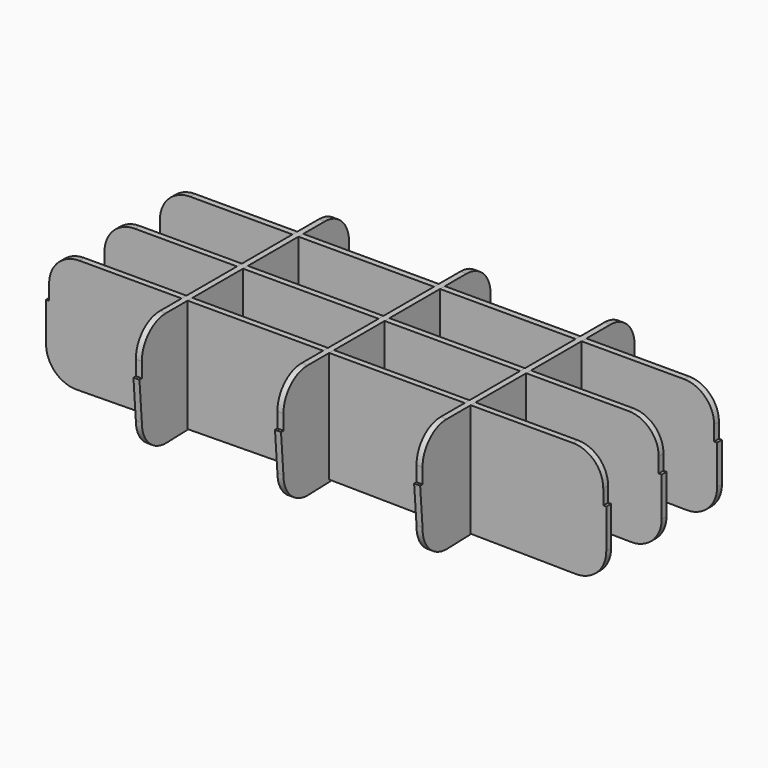
from build123d import *

# Parameters (mm, degrees)
F10_DEPTH = 1
F11_DEPTH = 1
F12_DEPTH = 1


with BuildPart() as f10:
    # F4 (on offset) → F10 (new body, symmetric)
    with BuildSketch(Plane.XZ.offset(23)):
        with BuildLine():
            ThreePointArc((82.879351, -16), (90.028283, -13.114323), (93, -6.000728))
            Line((93, -6.000728), (93, 7))
            Line((93, 7), (92, 7))
            Line((92, 7), (92, 12))
            ThreePointArc((92, 12), (89.071068, 19.071068), (82, 22))
            Line((82, 22), (-82, 22))
            ThreePointArc((-82, 22), (-89.071068, 19.071068), (-92, 12))
            Line((-92, 12), (-92, 7))
            Line((-92, 7), (-93, 7))
            Line((-93, 7), (-93, -6.000728))
            ThreePointArc((-93, -6.000728), (-90.028283, -13.114323), (-82.879351, -16))
            Line((-82.879351, -16), (0, -15))
            Line((0, -15), (82.879351, -16))
        make_face()
    extrude(amount=F10_DEPTH, both=True)


with BuildPart() as f11:
    # F5 (on Front) + F6 (on offset) → F11 (new body, symmetric)
    with BuildSketch(Plane.XZ):
        with BuildLine():
            ThreePointArc((82.879351, -16), (90.028283, -13.114323), (93, -6.000728))
            Line((93, -6.000728), (93, 7))
            Line((93, 7), (92, 7))
            Line((92, 7), (92, 12))
            ThreePointArc((92, 12), (89.071068, 19.071068), (82, 22))
            Line((82, 22), (-82, 22))
            ThreePointArc((-82, 22), (-89.071068, 19.071068), (-92, 12))
            Line((-92, 12), (-92, 7))
            Line((-92, 7), (-93, 7))
            Line((-93, 7), (-93, -6.000728))
            ThreePointArc((-93, -6.000728), (-90.028283, -13.114323), (-82.879351, -16))
            Line((-82.879351, -16), (0, -15))
            Line((0, -15), (82.879351, -16))
        make_face()
    with BuildSketch(Plane.XZ.offset(-23)):
        with BuildLine():
            ThreePointArc((82.879351, -16), (90.028283, -13.114323), (93, -6.000728))
            Line((93, -6.000728), (93, 7))
            Line((93, 7), (92, 7))
            Line((92, 7), (92, 12))
            ThreePointArc((92, 12), (89.071068, 19.071068), (82, 22))
            Line((82, 22), (-82, 22))
            ThreePointArc((-82, 22), (-89.071068, 19.071068), (-92, 12))
            Line((-92, 12), (-92, 7))
            Line((-92, 7), (-93, 7))
            Line((-93, 7), (-93, -6.000728))
            ThreePointArc((-93, -6.000728), (-90.028283, -13.114323), (-82.879351, -16))
            Line((-82.879351, -16), (0, -15))
            Line((0, -15), (82.879351, -16))
        make_face()
    extrude(amount=F11_DEPTH, both=True)


with BuildPart() as f12:
    # F8 (on offset) + F9 (on Right) + F7 (on offset) → F12 (new body, symmetric)
    with BuildSketch(Plane.YZ.offset(-47)):
        with BuildLine():
            Line((43.003591, -5.975801), (44.00363, 7))
            Line((44.00363, 7), (43, 7))
            Line((43, 7), (43, 12))
            ThreePointArc((43, 12), (40.071068, 19.071068), (33, 22))
            Line((33, 22), (-33, 22))
            ThreePointArc((-33, 22), (-40.071068, 19.071068), (-43, 12))
            Line((-43, 12), (-43, 7))
            Line((-43, 7), (-43.99637, 7))
            Line((-43.99637, 7), (-42.996409, -5.974798))
            ThreePointArc((-42.996409, -5.974798), (-39.969105, -13.172826), (-32.690144, -16))
            Line((-32.690144, -16), (-0.058741, -15))
            Line((-0.058741, -15), (32.698499, -16))
            ThreePointArc((32.698499, -16), (39.976333, -13.172742), (43.003591, -5.975801))
        make_face()
    with BuildSketch(Plane.YZ):
        with BuildLine():
            Line((43.005299, -5.975801), (44.005338, 7))
            Line((44.005338, 7), (43.001708, 7))
            Line((43.001708, 7), (43.001708, 12))
            ThreePointArc((43.001708, 12), (40.072776, 19.071068), (33.001708, 22))
            Line((33.001708, 22), (-32.998292, 22))
            ThreePointArc((-32.998292, 22), (-40.06936, 19.071068), (-42.998292, 12))
            Line((-42.998292, 12), (-42.998292, 7))
            Line((-42.998292, 7), (-43.994662, 7))
            Line((-43.994662, 7), (-42.994701, -5.974798))
            ThreePointArc((-42.994701, -5.974798), (-39.967396, -13.172826), (-32.688436, -16))
            Line((-32.688436, -16), (-0.057033, -15))
            Line((-0.057033, -15), (32.700207, -16))
            ThreePointArc((32.700207, -16), (39.978041, -13.172742), (43.005299, -5.975801))
        make_face()
    with BuildSketch(Plane.YZ.offset(47)):
        with BuildLine():
            Line((43.998771, -5.674747), (45, 7))
            Line((45, 7), (44, 7))
            Line((44, 7), (44, 12))
            ThreePointArc((44, 12), (41.071068, 19.071068), (34, 22))
            Line((34, 22), (-34, 22))
            ThreePointArc((-34, 22), (-41.071068, 19.071068), (-44, 12))
            Line((-44, 12), (-44, 7))
            Line((-44, 7), (-45, 7))
            Line((-45, 7), (-44.001229, -5.643621))
            ThreePointArc((-44.001229, -5.643621), (-41.101126, -13.05311), (-33.710121, -16))
            Line((-33.710121, -16), (-0.125082, -15))
            Line((-0.125082, -15), (33.708772, -16))
            ThreePointArc((33.708772, -16), (41.087354, -13.06333), (43.998771, -5.674747))
        make_face()
    extrude(amount=F12_DEPTH, both=True)


solid = Compound([f10.part, f11.part, f12.part])
